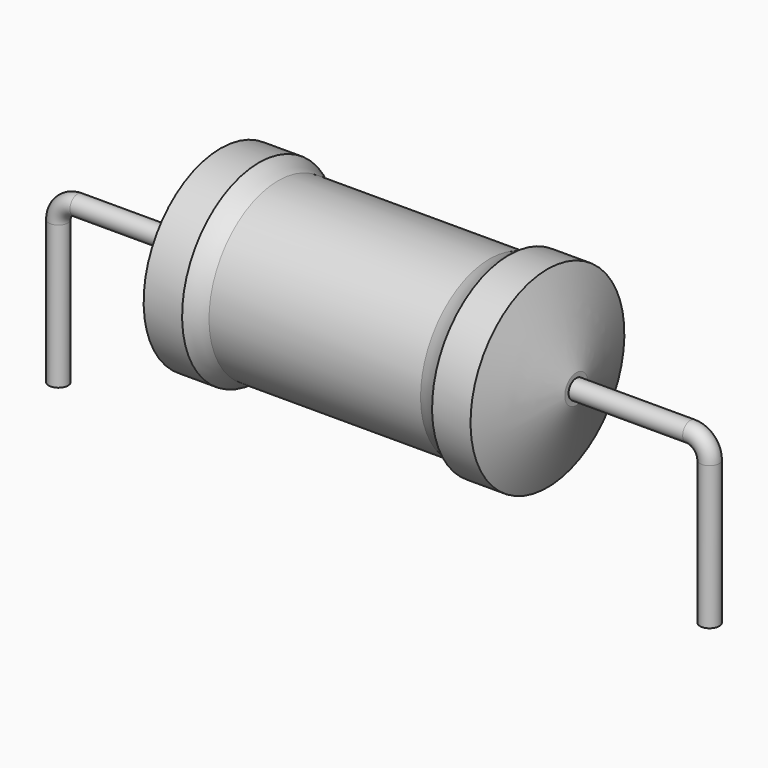
from build123d import *

# Parameters (mm, degrees)
SKETCH_R = 0.45


with BuildPart() as revolution:
    # Sketch002 → Revolution (revolve)
    with BuildSketch(Plane.XZ):
        with BuildLine():
            Line((7.59, 9.1), (9.39, 9.1))
            ThreePointArc((9.39, 9.1), (9.821378, 8.837757), (10.29, 8.65))
            Line((10.29, 8.65), (20.19, 8.65))
            ThreePointArc((20.19, 8.65), (20.658622, 8.837757), (21.09, 9.1))
            Line((21.09, 9.1), (22.89, 9.1))
            ThreePointArc((24.24, 5.275), (23.580197, 7.192864), (22.89, 9.1))
            Line((24.24, 4.6), (24.24, 5.275))
            Line((6.24, 4.6), (24.24, 4.6))
            Line((6.24, 4.6), (6.24, 5.275))
            ThreePointArc((7.59, 9.1), (6.899803, 7.192864), (6.24, 5.275))
        make_face()
    revolve(axis=Axis((6.24, 0, 4.6), (1, 0, 0)))


with BuildPart() as sweep_body:
    # Sweep: sweep along a path in Sketch001
    with BuildLine(Plane.XZ) as sweep_path:
        Line((0, -3), (0, 3.7))
        ThreePointArc((0, 3.7), (0.263601, 4.336393), (0.899992, 4.6))
        Line((0.899992, 4.6), (29.58, 4.6))
        ThreePointArc((29.58, 4.6), (30.216396, 4.336396), (30.48, 3.7))
        Line((30.48, 3.7), (30.48, -3))
    # Sketch → Sweep (sweep)
    with BuildSketch(Plane.XY.offset(-2)):
        Circle(SKETCH_R)
    sweep(path=sweep_path.line)


solid = Compound([revolution.part, sweep_body.part])
